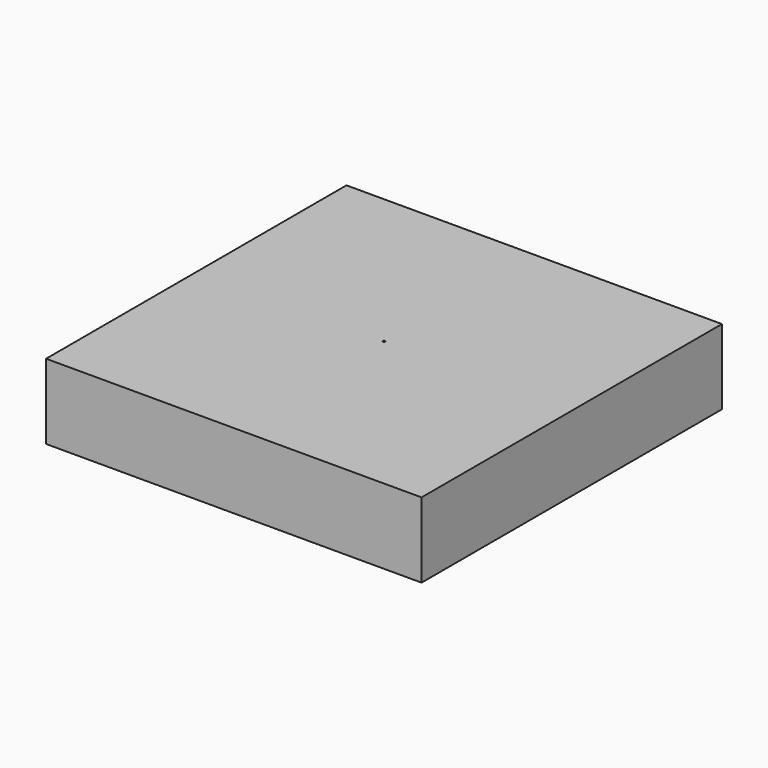
from build123d import *

# Parameters (mm, degrees)
F0_W     = 127
F0_H     = 25.4
F0_H_2   = 76.2
F0_R     = 0.381
F1_DEPTH = 25.4


with BuildPart() as f1:
    # F0 (on Top) → F1 (new body)
    with BuildSketch(Plane.XY):
        with Locations((0, 50.8)):
            Rectangle(F0_W, F0_H)
        Rectangle(F0_W, F0_H_2)
        Circle(F0_R, mode=Mode.SUBTRACT)
        with Locations((0, -50.8)):
            Rectangle(F0_W, F0_H)
    extrude(amount=F1_DEPTH)


solid = f1.part
